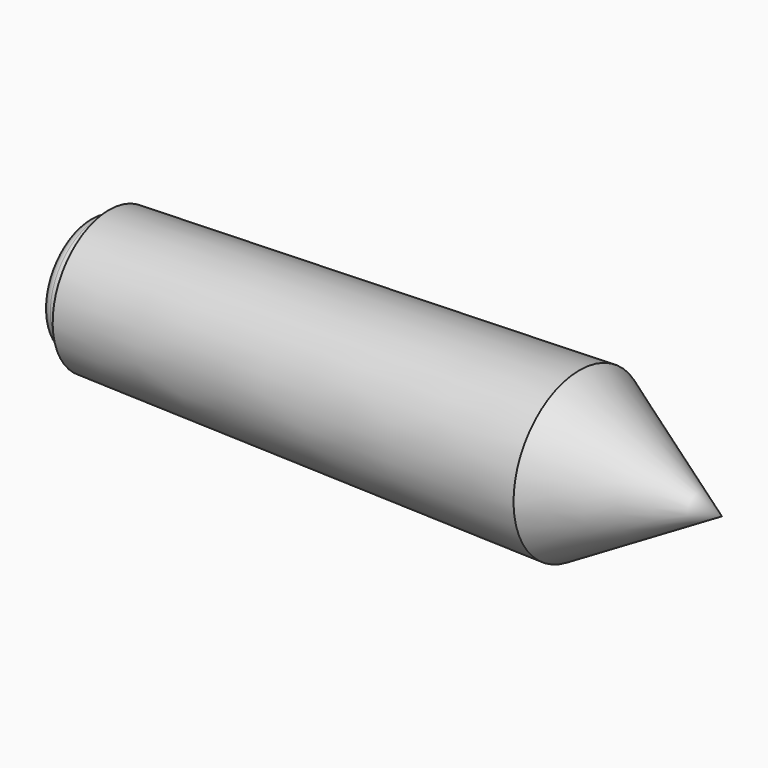
from build123d import *

# Parameters (mm, degrees)
F0_W = 3.504342
F0_H = 10
F4_R = 1.5


with BuildPart() as f1:
    # F0 (on Front) → F1 (revolve)
    with BuildSketch(Plane.XZ):
        Polygon((47.826219, 0), (23.577508, 14), (23.577508, 0), align=None)
    revolve(axis=Axis((-3.649388, 0, 0), (1, 0, 0)))


with BuildPart() as f2:
    # F0 (on Front) → F2 (revolve)
    with BuildSketch(Plane.XZ):
        Polygon((23.577508, 0), (23.577508, 14), (-56.422492, 12), (-56.422492, 10), (-56.422492, 0), align=None)
    revolve(axis=Axis((-3.649388, 0, 0), (1, 0, 0)))


with BuildPart() as f3:
    # F0 (on Front) → F3 (revolve)
    with BuildSketch(Plane.XZ):
        with Locations((-58.174663, 5)):
            Rectangle(F0_W, F0_H)
    revolve(axis=Axis((-3.649388, 0, 0), (1, 0, 0)))

    # F4
    f4_edges = [f3.edges().sort_by_distance(p)[0] for p in [
        (-59.926834, 0, -10),
    ]]
    fillet(f4_edges, radius=F4_R)


solid = Compound([f1.part, f2.part, f3.part])
